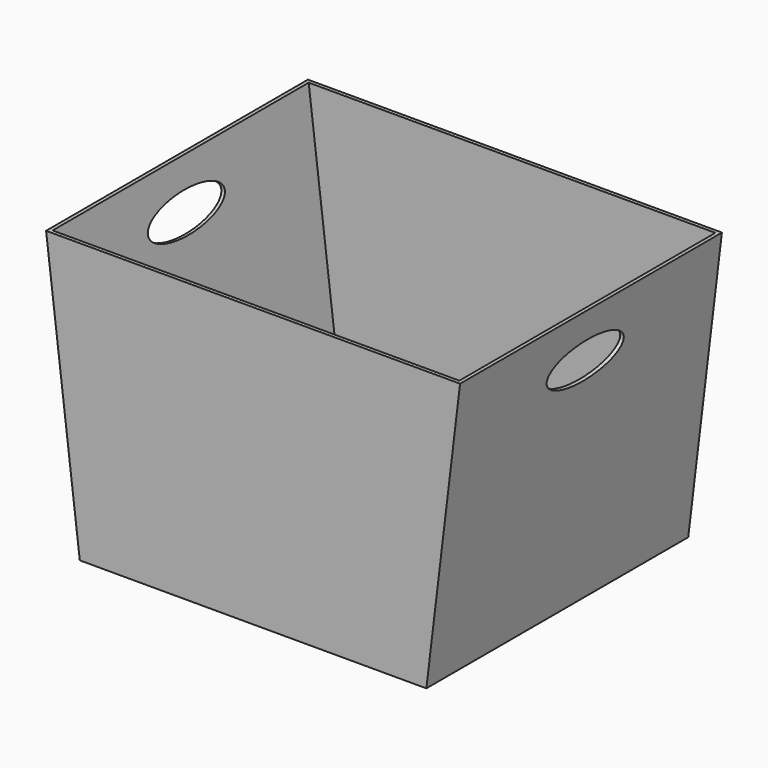
from build123d import *

# Parameters (mm, degrees)
F1_DEPTH = 431.8
F2_T     = -4.7625
F4_DEPTH = 25.4
F6_DEPTH = 25.4


with BuildPart() as f1:
    # F0 (on Front) → F1 (new body)
    with BuildSketch(Plane.XZ):
        Polygon((273.05, 215.9364468904), (-273.05, 215.9364468904), (-228.6, -152.3635531096), (228.6, -152.3635531096), align=None)
    extrude(amount=F1_DEPTH)

    # F2
    f2_openings = [f1.faces().sort_by_distance(p)[0] for p in [
        (0, -215.9, 215.936447),
    ]]
    offset(amount=F2_T, openings=f2_openings)

    # F3 (on face) → F4 (cut)
    with BuildSketch(Plane(origin=(-243.4427197663, 0, -29.3810179028), x_dir=(0, -1, 0), z_dir=(-0.992795613, 0, -0.1198201602))):
        with BuildLine():
            add(Edge.make_bspline(
                [(152.4, 183.5976519019), (152.4, 139.6035613896), (247.65, 161.6006066457), (342.9, 183.5976519019), (247.65, 205.594697158), (152.4, 227.5917424141), (152.4, 183.5976519019)],
                knots=[0, 0, 0, 2.0943951024, 2.0943951024, 4.1887902048, 4.1887902048, 6.2831853072, 6.2831853072, 6.2831853072], degree=2, weights=[1, 0.5, 1, 0.5, 1, 0.5, 1]))
        make_face()
    extrude(amount=-F4_DEPTH, mode=Mode.SUBTRACT)

    # F5 (on face) → F6 (cut)
    with BuildSketch(Plane(origin=(243.4427197663, 0, -29.3810179028), x_dir=(0, 1, 0), z_dir=(0.992795613, 0, -0.1198201602))):
        with BuildLine():
            add(Edge.make_bspline(
                [(-152.4, 183.5976519019), (-152.4, 227.5917424141), (-247.65, 205.594697158), (-342.9, 183.5976519019), (-247.65, 161.6006066457), (-152.4, 139.6035613896), (-152.4, 183.5976519019)],
                knots=[0, 0, 0, 2.0943951024, 2.0943951024, 4.1887902048, 4.1887902048, 6.2831853072, 6.2831853072, 6.2831853072], degree=2, weights=[1, 0.5, 1, 0.5, 1, 0.5, 1]))
        make_face()
    extrude(amount=-F6_DEPTH, mode=Mode.SUBTRACT)


solid = f1.part
